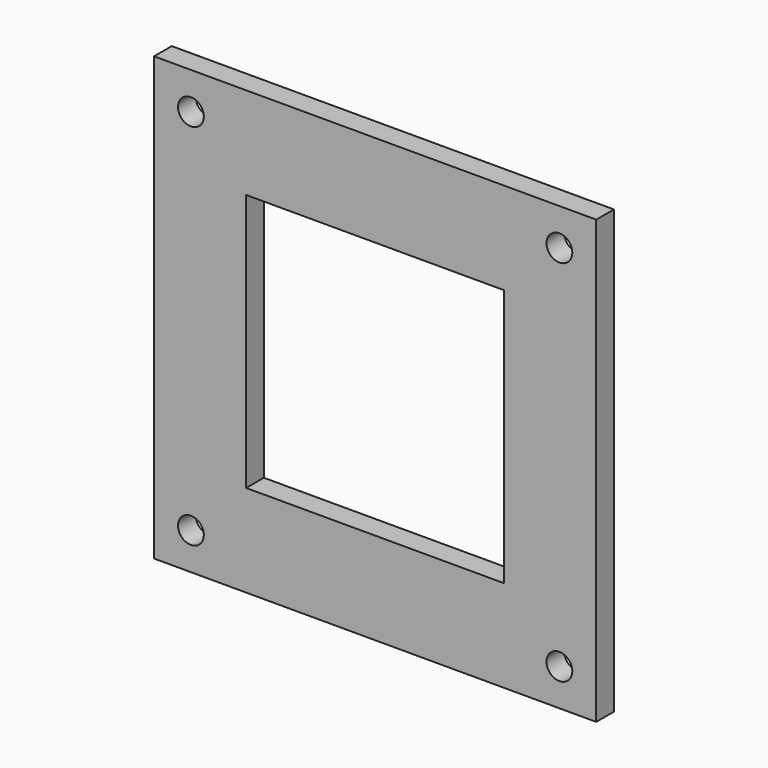
from build123d import *

# Parameters (mm, degrees)
F0_W     = 60
F0_H     = 60
F0_R     = 1.75
F0_W_2   = 35
F0_H_2   = 35
F1_DEPTH = 3


with BuildPart() as f1:
    # F0 (on Front) → F1 (new body)
    with BuildSketch(Plane.XZ):
        Rectangle(F0_W, F0_H)
        with Locations((-25, -25)):
            Circle(F0_R, mode=Mode.SUBTRACT)
        with Locations((25, -25)):
            Circle(F0_R, mode=Mode.SUBTRACT)
        with Locations((-25, 25)):
            Circle(F0_R, mode=Mode.SUBTRACT)
        Rectangle(F0_W_2, F0_H_2, mode=Mode.SUBTRACT)
        with Locations((25, 25)):
            Circle(F0_R, mode=Mode.SUBTRACT)
    extrude(amount=F1_DEPTH)


solid = f1.part
